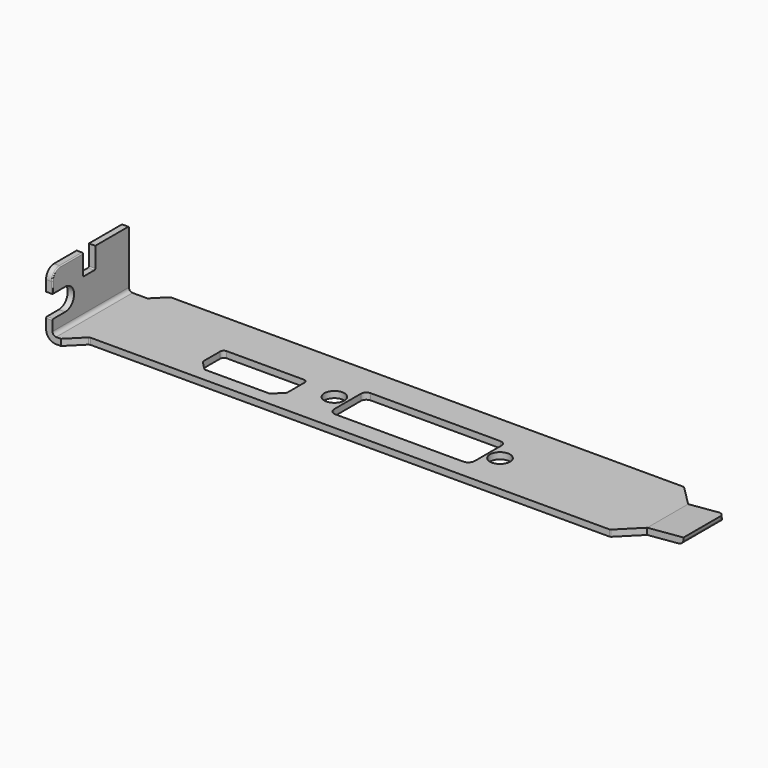
from build123d import *

# Parameters (mm, degrees)
PAD_DEPTH            = 21.59
POCKET_DEPTH         = 0.001476
POCKET_DEPTH_BACK    = -12.700524
SKETCH002_W          = 3.048
SKETCH002_H          = 5.191
POCKET001_DEPTH      = 121.30125
POCKET001_DEPTH_BACK = -0.00125
FILLET_R             = 0.2
FILLET001_R          = 1.107
SKETCH003_R          = 2
POCKET002_DEPTH      = 5
BODY_PLACEMENT_ANGLE = 180


with BuildPart() as part:
    # Sketch → Pad (new body)
    with BuildSketch(Plane.XZ.offset(-10.79)):
        with BuildLine():
            Line((-60.53925, 1.899524), (-53.30925, 1.269524))
            Line((-53.30925, 1.269524), (58.64525, 1.268524))
            ThreePointArc((58.64525, 1.268524), (59.166388, 1.484386), (59.38225, 2.005524))
            Line((59.38225, 2.005524), (59.38125, 12.699524))
            Line((59.38125, 12.699524), (60.65025, 12.699524))
            Line((60.65025, 12.699524), (60.65025, 2.005524))
            ThreePointArc((58.64525, 0.000524), (60.062999, 0.587775), (60.65025, 2.005524))
            Line((58.64525, 0.000524), (-53.29825, -0.000476))
            Line((-53.42525, 0.003524), (-53.29825, -0.000476))
            Line((-53.42525, 0.003524), (-60.65025, 0.634524))
            Line((-60.65025, 0.634524), (-60.53925, 1.899524))
        make_face()
    extrude(amount=PAD_DEPTH)

    # Sketch001 → Pocket (cut, two sides)
    with BuildSketch(Plane(origin=(0, 30, 0), x_dir=(1, 0, 0), z_dir=(0, 0, 1))) as pocket_sk:
        Polygon((-65.65025, -36.681), (-65.65025, -44.909), (-47.05075, -44.909), (-47.05075, -41.614), (-49.32275, -40.678), (-53.30925, -36.681), align=None)
        Polygon((-53.30925, -26.495), (-49.32275, -22.497), (-49.03875, -22.381), (54.35125, -22.381), (54.63525, -22.263), (57.69221, -19.205), (57.69221, -11.915), (-65.65025, -11.915), (-65.65025, -26.495), align=None)
        Polygon((52.07425, -41.201), (52.07425, -46.483), (64.41525, -46.483), (64.41525, -38.255), (55.76725, -38.255), (55.62525, -38.313), (53.20225, -40.737), align=None)
    extrude(amount=-POCKET_DEPTH, mode=Mode.SUBTRACT)
    extrude(pocket_sk.sketch, amount=-POCKET_DEPTH_BACK, mode=Mode.SUBTRACT)

    # Sketch002 → Pocket001 (cut, two sides)
    with BuildSketch(Plane(origin=(60.65, 1.263, 0), x_dir=(0, 1, 0), z_dir=(1, 0, 0))) as pocket001_sk:
        with BuildLine():
            Line((6.351, 8.559), (10.527, 8.559))
            Line((10.527, 4.14), (10.527, 8.559))
            Line((10.527, 4.14), (6.351, 4.14))
            ThreePointArc((6.351, 8.559), (4.1415, 6.3495), (6.351, 4.14))
        make_face()
        with Locations((0.383, 11.1045)):
            Rectangle(SKETCH002_W, SKETCH002_H)
        with BuildLine():
            ThreePointArc((9.527, 10.7), (8.941214, 12.114214), (7.527, 12.7))
            Line((7.527, 12.7), (7.527, 13.7))
            Line((7.527, 13.7), (10.527, 13.7))
            Line((10.527, 10.7), (10.527, 13.7))
            Line((9.527, 10.7), (10.527, 10.7))
        make_face()
    extrude(amount=-POCKET001_DEPTH, mode=Mode.SUBTRACT)
    extrude(pocket001_sk.sketch, amount=-POCKET001_DEPTH_BACK, mode=Mode.SUBTRACT)

    # Fillet
    fillet_edges = [part.edges().sort_by_distance(p)[0] for p in [
        (60.015718, 10.79, 10.7),
        (60.016025, 10.79, 4.14),
        (60.015821, 3.17, 8.509),
        (59.381537, 10.79, 9.6295),
        (60.015821, 0.122, 8.509),
        (60.015819, 7.614, 8.559),
        (60.01575, -8.255, 12.699524),
    ]]
    fillet(fillet_edges, radius=FILLET_R)

    # Fillet001
    fillet001_edges = [part.edges().sort_by_distance(p)[0] for p in [
        (-60.59475, -6.681, 1.267024),
        (-60.65025, -1.588, 0.634524),
    ]]
    fillet(fillet001_edges, radius=FILLET001_R)

    # Sketch003 (on XY_Plane of Origin) → Pocket002 (cut, symmetric)
    with BuildSketch(Plane.XY):
        with Locations((-20.761466, -0.508223)):
            Circle(SKETCH003_R)
        with Locations((12.238534, -0.508223)):
            Circle(SKETCH003_R)
        with BuildLine():
            Line((-17.215014, -5.008223), (8.599402, -5.008223))
            ThreePointArc((8.599402, -5.008223), (9.372123, -4.688152), (9.692194, -3.915431))
            Line((9.692194, -3.915431), (9.692194, 2.718985))
            ThreePointArc((9.692194, 2.718985), (9.319402, 3.618985), (8.419402, 3.991777))
            Line((8.419402, 3.991777), (-17.035014, 3.991777))
            ThreePointArc((-17.035014, 3.991777), (-17.935014, 3.618985), (-18.307806, 2.718985))
            Line((-18.307806, 2.718985), (-18.307806, -3.915431))
            ThreePointArc((-18.307806, -3.915431), (-17.987735, -4.688152), (-17.215014, -5.008223))
        make_face()
        with BuildLine():
            Line((19.567188, -2.081534), (34.951188, -2.081534))
            ThreePointArc((34.951188, -2.081534), (35.461442, -1.87018), (35.672797, -1.359925))
            Line((35.672797, -1.359925), (35.672797, 2.812811))
            ThreePointArc((35.672797, 2.812811), (35.635004, 3.002811), (35.527377, 3.163885))
            Line((35.527377, 3.163885), (33.907086, 4.784176))
            ThreePointArc((33.907086, 4.784176), (33.75834, 4.883565), (33.582882, 4.918466))
            Line((33.582882, 4.918466), (20.978451, 4.918466))
            ThreePointArc((20.978451, 4.918466), (20.788451, 4.880672), (20.627377, 4.773046))
            Line((20.627377, 4.773046), (19.007087, 3.152755))
            ThreePointArc((19.007087, 3.152755), (18.907698, 3.004009), (18.872797, 2.828551))
            Line((18.872797, 2.828551), (18.872797, -1.387144))
            ThreePointArc((18.872797, -1.387144), (19.076179, -1.878152), (19.567188, -2.081534))
        make_face()
    extrude(amount=POCKET002_DEPTH, both=True, mode=Mode.SUBTRACT)


with BuildPart() as part_1:
    # Body placement: moved
    add(part.part.moved(Location((17.553, 0, 0))).rotate(Axis((17.553, 0, 0), (0, 0, 1)), BODY_PLACEMENT_ANGLE))


solid = part_1.part
